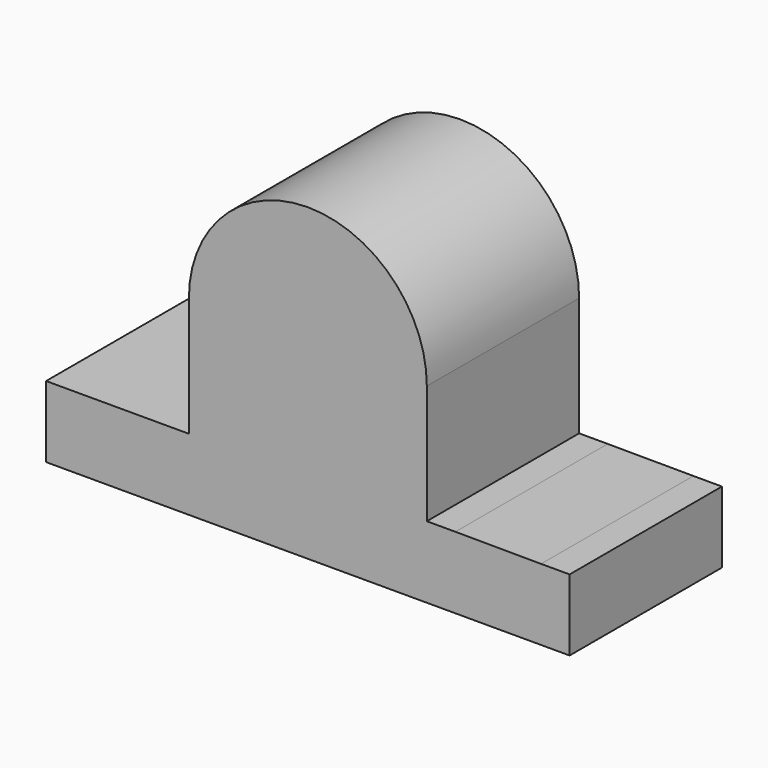
from build123d import *

# Parameters (mm, degrees)
F0_R     = 14
F0_W     = 11
F0_H     = 7.7
F1_DEPTH = 40


with BuildPart() as f1:
    # F0 (on Front) → F1 (new body)
    with BuildSketch(Plane.XZ):
        Polygon((47.230265, 7.764964), (47.230265, 0), (58.230265, 0), (67.730265, 0), (67.730265, 15), (61.730265, 15), (61.730265, 7.7), align=None)
        Polygon((-42.269735, 15), (-42.269735, 0), (-32.769735, 0), (-32.769735, 7.7), (-36.269735, 7.7), (-36.269735, 15), align=None)
        Polygon((43.730265, 7.780645), (47.230265, 7.764964), (61.730265, 7.7), (61.730265, 15), (43.730265, 15.080645), align=None)
        Polygon((-36.269735, 7.7), (-32.769735, 7.7), (-21.769735, 7.7), (-18.269735, 7.7), (-18.269735, 15), (-36.269735, 15), align=None)
        with BuildLine():
            Line((-21.769735, 7.7), (-21.769735, 0))
            Line((-21.769735, 0), (47.230265, 0))
            Line((47.230265, 0), (47.230265, 7.764964))
            Line((47.230265, 7.764964), (43.730265, 7.780645))
            Line((43.730265, 7.780645), (43.730265, 15.080645))
            Line((43.730265, 15.080645), (37.730265, 15.080645))
            Line((37.730265, 15.080645), (37.730265, 40))
            Line((37.730265, 40), (37.730265, 40.080645))
            ThreePointArc((37.730265, 40.080645), (12.689942, 65.040323), (-12.269735, 40))
            Line((-12.269735, 40), (-12.269735, 15))
            Line((-12.269735, 15), (-18.269735, 15))
            Line((-18.269735, 15), (-18.269735, 7.7))
            Line((-18.269735, 7.7), (-21.769735, 7.7))
        make_face()
        with Locations((12.730265, 40.040323)):
            Circle(F0_R, mode=Mode.SUBTRACT)
        with Locations((12.730265, 40.040323)):
            Circle(F0_R)
        with Locations((-27.269735, 3.85)):
            Rectangle(F0_W, F0_H)
    extrude(amount=F1_DEPTH)


solid = f1.part
